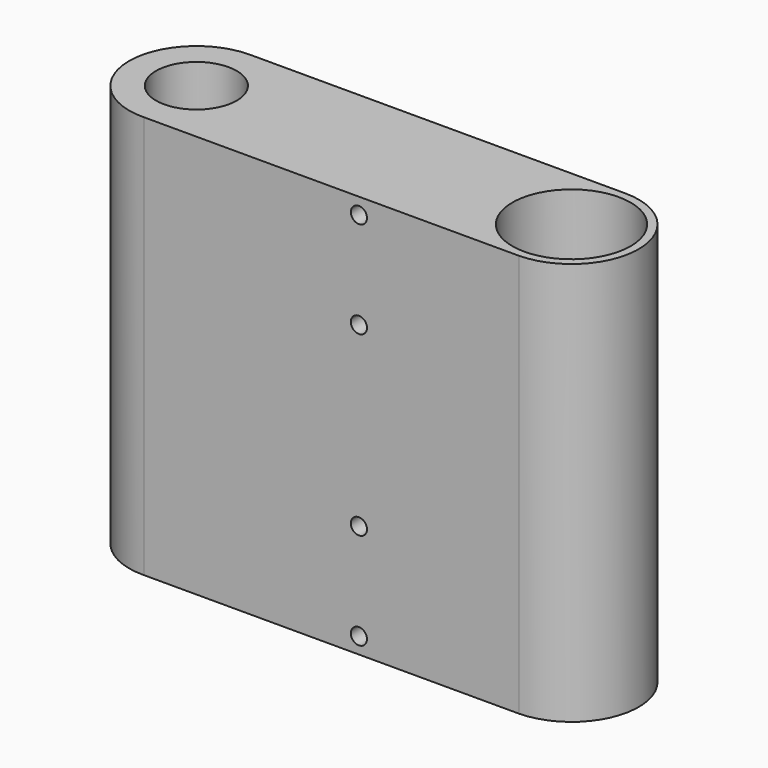
from build123d import *

# Parameters (mm, degrees)
SKETCH_R        = 7.5
SKETCH_R_2      = 4.25
PAD_DEPTH       = 75
SKETCH004_R     = 1.5
HOLE001_DEPTH   = 25
HOLE001_TIPS_R  = 1.5
SKETCH005_R     = 11
POCKET002_DEPTH = 33
SKETCH006_R     = 11
POCKET003_DEPTH = 33


with BuildPart() as part:
    # Sketch → Pad (new body)
    with BuildSketch(Plane.XY):
        with BuildLine():
            ThreePointArc((-38.9, 12.5), (-51.39943, -0.119353), (-38.661306, -12.497721))
            Line((-38.661306, -12.497721), (31.138694, -12.497721))
            ThreePointArc((31.138694, -12.497721), (43.39943, 0.119353), (30.9, 12.5))
            Line((-38.9, 12.5), (30.9, 12.5))
        make_face()
        with Locations((-38.9, 0)):
            Circle(SKETCH_R, mode=Mode.SUBTRACT)
        with Locations((30.9, 0)):
            Circle(SKETCH_R_2, mode=Mode.SUBTRACT)
    extrude(amount=PAD_DEPTH)

    # Sketch004 → Hole001 (cut)
    with BuildSketch(Plane.XZ.offset(12.5)):
        with Locations((1.338694, 72)):
            Circle(SKETCH004_R)
        with Locations((1.338694, 54)):
            Circle(SKETCH004_R)
        with Locations((1.338694, 21)):
            Circle(SKETCH004_R)
        with Locations((1.338694, 3)):
            Circle(SKETCH004_R)
    extrude(amount=-HOLE001_DEPTH, mode=Mode.SUBTRACT)

    # Hole001 tips → Hole001 tip 1 section 0
    with BuildSketch(Plane.XZ.offset(-12.5), mode=Mode.PRIVATE) as hole001_tip_1_s0:
        with Locations((1.338694, 72)):
            Circle(HOLE001_TIPS_R)
    loft([hole001_tip_1_s0.sketch, Vertex(1.338694, 13.401291, 72)], mode=Mode.SUBTRACT)

    # Hole001 tips → Hole001 tip 2 section 0
    with BuildSketch(Plane.XZ.offset(-12.5), mode=Mode.PRIVATE) as hole001_tip_2_s0:
        with Locations((1.338694, 54)):
            Circle(HOLE001_TIPS_R)
    loft([hole001_tip_2_s0.sketch, Vertex(1.338694, 13.401291, 54)], mode=Mode.SUBTRACT)

    # Hole001 tips → Hole001 tip 3 section 0
    with BuildSketch(Plane.XZ.offset(-12.5), mode=Mode.PRIVATE) as hole001_tip_3_s0:
        with Locations((1.338694, 21)):
            Circle(HOLE001_TIPS_R)
    loft([hole001_tip_3_s0.sketch, Vertex(1.338694, 13.401291, 21)], mode=Mode.SUBTRACT)

    # Hole001 tips → Hole001 tip 4 section 0
    with BuildSketch(Plane.XZ.offset(-12.5), mode=Mode.PRIVATE) as hole001_tip_4_s0:
        with Locations((1.338694, 3)):
            Circle(HOLE001_TIPS_R)
    loft([hole001_tip_4_s0.sketch, Vertex(1.338694, 13.401291, 3)], mode=Mode.SUBTRACT)

    # Sketch005 (on Face5 of Hole001) → Pocket002 (cut)
    with BuildSketch(Plane.XY.offset(75)):
        with Locations((30.9, 0)):
            Circle(SKETCH005_R)
    extrude(amount=-POCKET002_DEPTH, mode=Mode.SUBTRACT)

    # Sketch006 (on Face4 of Pocket002) → Pocket003 (cut)
    with BuildSketch(Plane(origin=(0, 0, 0), x_dir=(1, 0, 0), z_dir=(0, 0, -1))):
        with Locations((30.9, 0)):
            Circle(SKETCH006_R)
    extrude(amount=-POCKET003_DEPTH, mode=Mode.SUBTRACT)


solid = part.part
